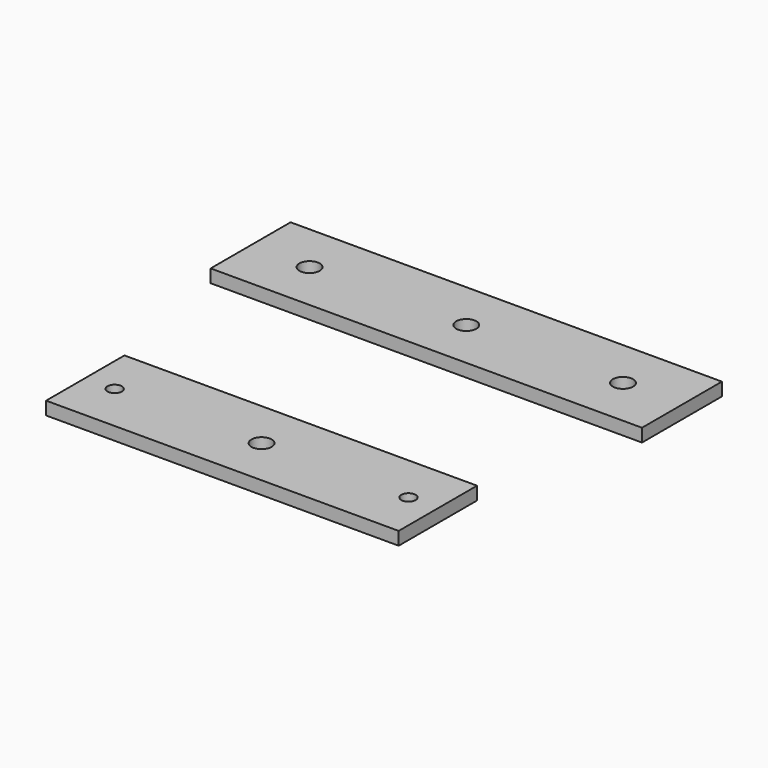
from build123d import *

# Parameters (mm, degrees)
F0_W     = 54
F0_H     = 15
F0_R     = 1.1
F0_R_2   = 1.55
F0_W_2   = 66.060424
F0_H_2   = 15.302129
F1_DEPTH = 2


with BuildPart() as f1:
    # F0 (on Top) → F1 (new body)
    with BuildSketch(Plane.XY):
        Rectangle(F0_W, F0_H)
        with Locations((-22.5, 0)):
            Circle(F0_R, mode=Mode.SUBTRACT)
        Circle(F0_R_2, mode=Mode.SUBTRACT)
        with Locations((22.5, 0)):
            Circle(F0_R, mode=Mode.SUBTRACT)
        with Locations((0, 39.188389)):
            Rectangle(F0_W_2, F0_H_2)
        with Locations((-24, 39.188389)):
            Circle(F0_R_2, mode=Mode.SUBTRACT)
        with Locations((0, 39.188389)):
            Circle(F0_R_2, mode=Mode.SUBTRACT)
        with Locations((24, 39.188389)):
            Circle(F0_R_2, mode=Mode.SUBTRACT)
    extrude(amount=F1_DEPTH)


solid = f1.part
